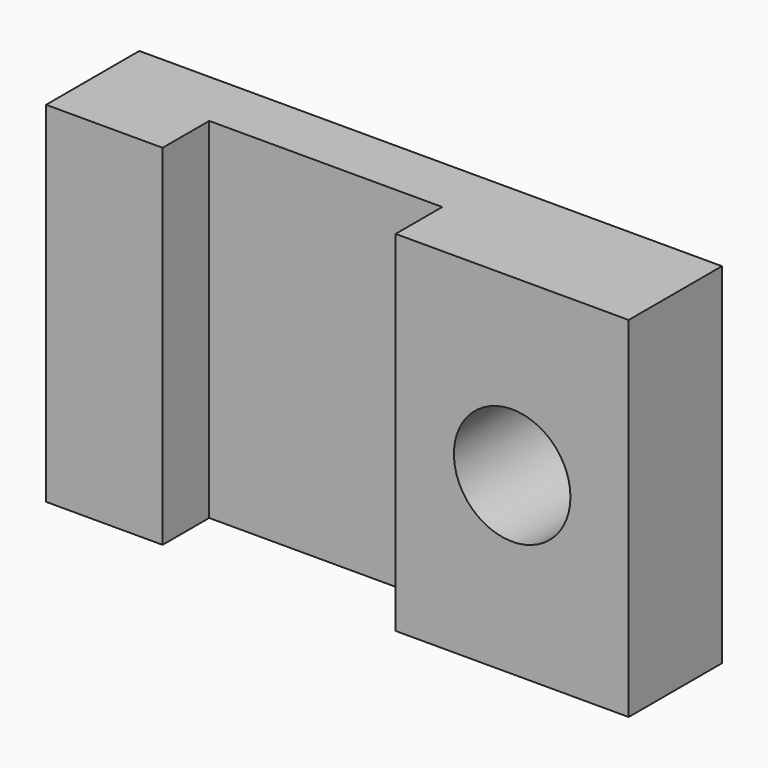
from build123d import *

# Parameters (mm, degrees)
F0_W     = 25.4
F0_H     = 76.2
F1_DEPTH = 25.4
F0_W_2   = 50.8
F2_DEPTH = 12.7
F0_R     = 12.7
F3_DEPTH = 25.4


with BuildPart() as f1:
    # F0 (on Front) → F1 (new body)
    with BuildSketch(Plane.XZ):
        with Locations((-12.7, 38.1)):
            Rectangle(F0_W, F0_H)
    extrude(amount=F1_DEPTH)

    # F0 (on Front) → F2 (join)
    with BuildSketch(Plane.XZ):
        with Locations((25.4, 38.1)):
            Rectangle(F0_W_2, F0_H)
    extrude(amount=F2_DEPTH)

    # F0 (on Front) → F3 (join)
    with BuildSketch(Plane.XZ):
        with Locations((76.2, 38.1)):
            Rectangle(F0_W_2, F0_H)
        with Locations((76.2, 38.1)):
            Circle(F0_R, mode=Mode.SUBTRACT)
    extrude(amount=F3_DEPTH)


solid = f1.part
